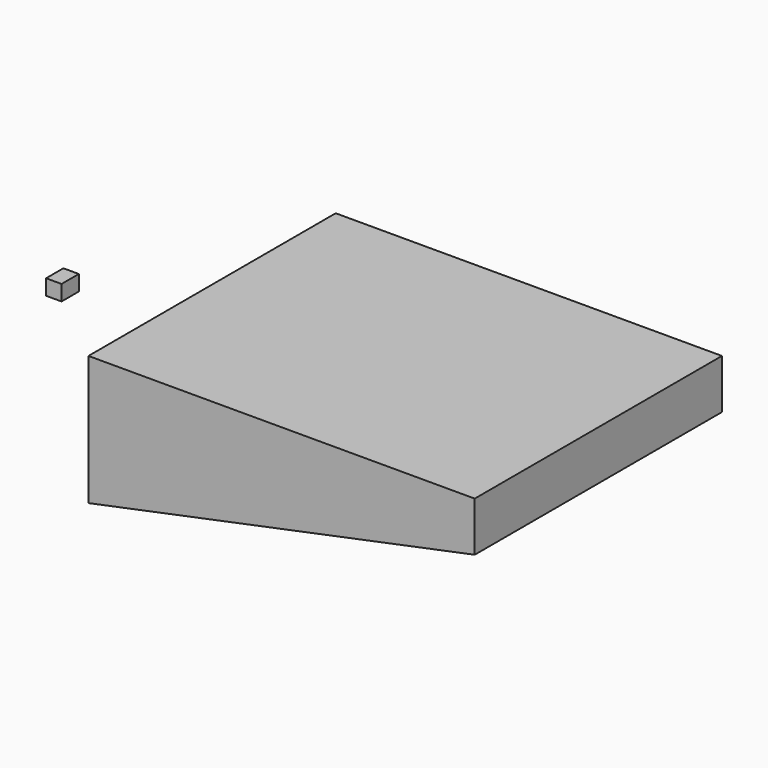
from build123d import *

# Parameters (mm, degrees)
F0_W     = 635
F0_H     = 508
F1_DEPTH = 81.28
F3_DEPTH = 508
F4_W     = 25.4
F4_H     = 25.4
F5_DEPTH = 35.56


with BuildPart() as f1:
    # F0 (on Top) → F1 (new body)
    with BuildSketch(Plane.XY):
        Rectangle(F0_W, F0_H)
    extrude(amount=F1_DEPTH)

    # F2 (on face) → F3 (join)
    with BuildSketch(Plane.XZ.offset(254)):
        Polygon((317.5, 19.807838), (-317.5, 26.855934), (-317.5, -131.72625), (317.5, 0), align=None)
    extrude(amount=-F3_DEPTH)


with BuildPart() as f5:
    # F4 (on Front) → F5 (new body)
    with BuildSketch(Plane.XZ):
        with Locations((-549.228689, 12.7)):
            Rectangle(F4_W, F4_H)
    extrude(amount=F5_DEPTH)


solid = Compound([f1.part, f5.part])
